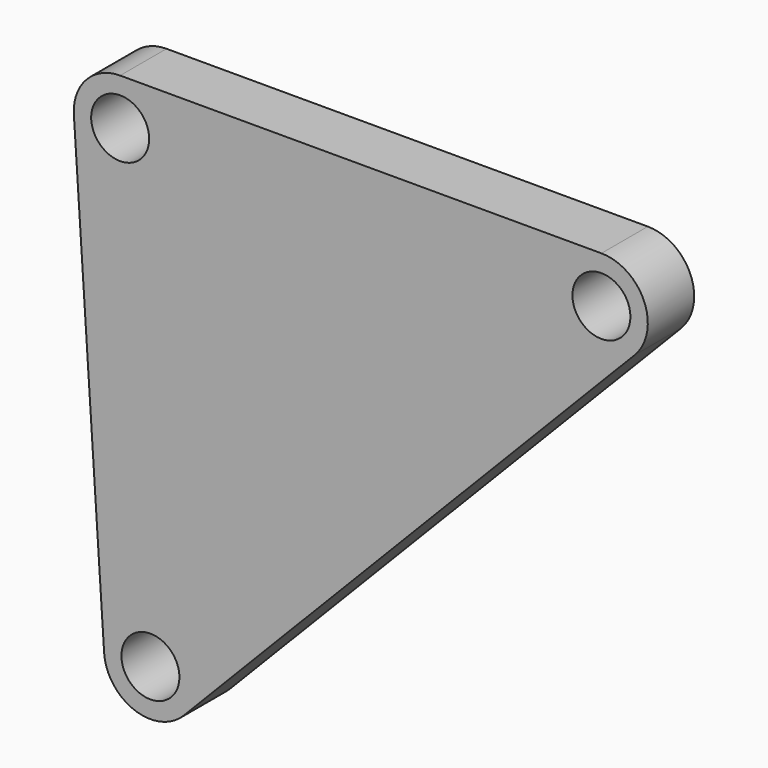
from build123d import *

# Parameters (mm, degrees)
F0_R     = 2.5
F1_DEPTH = 5


with BuildPart() as f1:
    # F0 (on Front) → F1 (new body)
    with BuildSketch(Plane.XZ):
        with BuildLine():
            Line((0, 4), (-41.5, 4))
            ThreePointArc((-41.5, 4), (-44.419019, 2.734836), (-45.491519, -0.260337))
            Line((-45.491519, -0.260337), (-42.88164, -40.275316))
            ThreePointArc((-42.88164, -40.275316), (-40.273002, -43.768329), (-36.021663, -42.802801))
            Line((-36.021663, -42.802801), (2.868457, -2.787822))
            ThreePointArc((2.868457, -2.787822), (3.684514, 1.557034), (0, 4))
        make_face()
        with Locations((-38.89012, -40.014979)):
            Circle(F0_R, mode=Mode.SUBTRACT)
        with Locations((-41.5, 0)):
            Circle(F0_R, mode=Mode.SUBTRACT)
        Circle(F0_R, mode=Mode.SUBTRACT)
    extrude(amount=F1_DEPTH)


solid = f1.part
